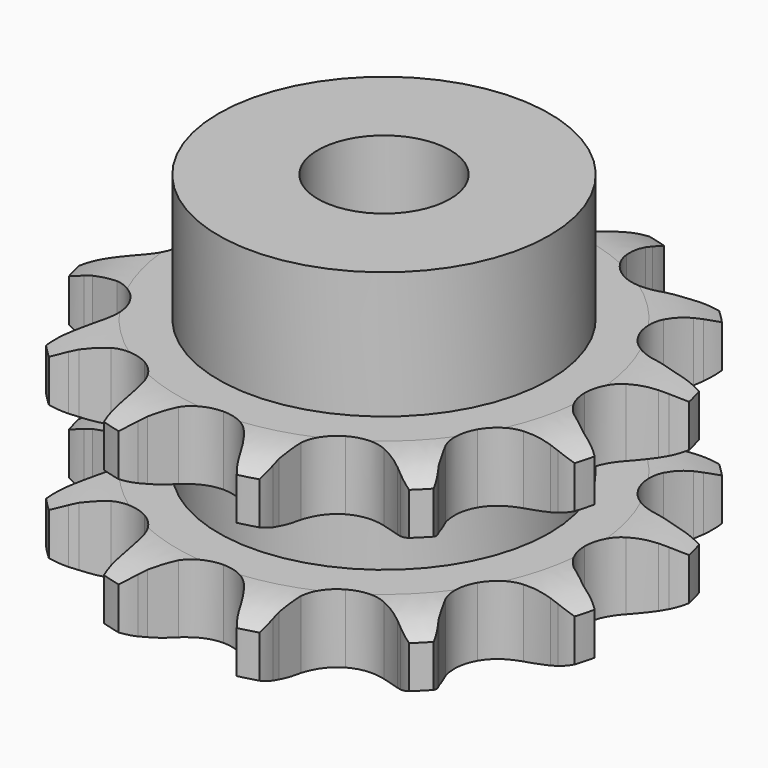
from build123d import *

# Parameters (mm, degrees)
PAD_DEPTH         = 15.4
SKETCH001_R       = 12.5
PAD001_DEPTH      = 25
SKETCH002_R       = 5
POCKET_DEPTH      = 0.001
POCKET_DEPTH_BACK = 25.001


with BuildPart() as part:
    # Sprocket → Pad (new body)
    with BuildSketch(Plane.XY):
        with BuildLine():
            ThreePointArc((-5.477307, 20.441588), (-4.527809, 19.570219), (-3.814697, 18.496767))
            Line((-3.814697, 18.496767), (-3.533665, 17.937187))
            ThreePointArc((-3.533665, 17.937187), (-3.050542, 17.100392), (-2.473538, 16.325342))
            ThreePointArc((-2.473538, 16.325342), (-1.364624, 15.474442), (0, 15.171912))
            ThreePointArc((0, 15.171912), (1.364624, 15.474442), (2.473538, 16.325342))
            ThreePointArc((2.473538, 16.325342), (3.050542, 17.100392), (3.533665, 17.937187))
            Line((3.533665, 17.937187), (3.814697, 18.496767))
            ThreePointArc((3.814697, 18.496767), (4.527809, 19.570219), (5.477307, 20.441588))
            ThreePointArc((5.477307, 20.441588), (5.863912, 19.212212), (5.944759, 17.926018))
            Line((5.944759, 17.926018), (5.908349, 17.300892))
            ThreePointArc((5.908349, 17.300892), (5.908349, 16.334644), (6.020524, 15.37493))
            ThreePointArc((6.020524, 15.37493), (6.555422, 14.083572), (7.585956, 13.139261))
            ThreePointArc((7.585956, 13.139261), (8.91902, 12.718948), (10.304818, 12.901392))
            Line((10.304818, 12.901392), (12.028838, 13.767227))
            ThreePointArc((12.028838, 13.767227), (12.28718, 13.944204), (12.552008, 14.111321))
            ThreePointArc((12.552008, 14.111321), (13.706308, 14.684402), (14.964281, 14.964281))
            ThreePointArc((14.964281, 14.964281), (14.684402, 13.706308), (14.111321, 12.552008))
            Line((14.111321, 12.552008), (13.767227, 12.028838))
            ThreePointArc((13.767227, 12.028838), (13.284103, 11.192042), (12.901392, 10.304818))
            ThreePointArc((12.901392, 10.304818), (12.718948, 8.91902), (13.139261, 7.585956))
            ThreePointArc((13.139261, 7.585956), (14.083572, 6.555422), (15.37493, 6.020524))
            Line((15.37493, 6.020524), (17.300892, 5.908349))
            ThreePointArc((17.300892, 5.908349), (17.613112, 5.932445), (17.926018, 5.944759))
            ThreePointArc((17.926018, 5.944759), (19.212212, 5.863912), (20.441588, 5.477307))
            ThreePointArc((20.441588, 5.477307), (19.570219, 4.527809), (18.496767, 3.814697))
            Line((18.496767, 3.814697), (17.937187, 3.533665))
            ThreePointArc((17.937187, 3.533665), (17.100392, 3.050542), (16.325342, 2.473538))
            ThreePointArc((16.325342, 2.473538), (15.474442, 1.364624), (15.171912, 0))
            ThreePointArc((15.171912, 0), (15.474442, -1.364624), (16.325342, -2.473538))
            Line((16.325342, -2.473538), (17.937187, -3.533665))
            ThreePointArc((17.937187, -3.533665), (18.219625, -3.668908), (18.496767, -3.814697))
            ThreePointArc((18.496767, -3.814697), (19.570219, -4.527809), (20.441588, -5.477307))
            ThreePointArc((20.441588, -5.477307), (19.212212, -5.863912), (17.926018, -5.944759))
            Line((17.926018, -5.944759), (17.300892, -5.908349))
            ThreePointArc((17.300892, -5.908349), (16.334644, -5.908349), (15.37493, -6.020524))
            ThreePointArc((15.37493, -6.020524), (14.083572, -6.555422), (13.139261, -7.585956))
            ThreePointArc((13.139261, -7.585956), (12.718948, -8.91902), (12.901392, -10.304818))
            Line((12.901392, -10.304818), (13.767227, -12.028838))
            ThreePointArc((13.767227, -12.028838), (13.944204, -12.28718), (14.111321, -12.552008))
            ThreePointArc((14.111321, -12.552008), (14.684402, -13.706308), (14.964281, -14.964281))
            ThreePointArc((14.964281, -14.964281), (13.706308, -14.684402), (12.552008, -14.111321))
            Line((12.552008, -14.111321), (12.028838, -13.767227))
            ThreePointArc((12.028838, -13.767227), (11.192042, -13.284103), (10.304818, -12.901392))
            ThreePointArc((10.304818, -12.901392), (8.91902, -12.718948), (7.585956, -13.139261))
            ThreePointArc((7.585956, -13.139261), (6.555422, -14.083572), (6.020524, -15.37493))
            Line((6.020524, -15.37493), (5.908349, -17.300892))
            ThreePointArc((5.908349, -17.300892), (5.932445, -17.613112), (5.944759, -17.926018))
            ThreePointArc((5.944759, -17.926018), (5.863912, -19.212212), (5.477307, -20.441588))
            ThreePointArc((5.477307, -20.441588), (4.527809, -19.570219), (3.814697, -18.496767))
            Line((3.814697, -18.496767), (3.533665, -17.937187))
            ThreePointArc((3.533665, -17.937187), (3.050542, -17.100392), (2.473538, -16.325342))
            ThreePointArc((2.473538, -16.325342), (1.364624, -15.474442), (0, -15.171912))
            ThreePointArc((0, -15.171912), (-1.364624, -15.474442), (-2.473538, -16.325342))
            Line((-2.473538, -16.325342), (-3.533665, -17.937187))
            ThreePointArc((-3.533665, -17.937187), (-3.668908, -18.219625), (-3.814697, -18.496767))
            ThreePointArc((-3.814697, -18.496767), (-4.527809, -19.570219), (-5.477307, -20.441588))
            ThreePointArc((-5.477307, -20.441588), (-5.863912, -19.212212), (-5.944759, -17.926018))
            Line((-5.944759, -17.926018), (-5.908349, -17.300892))
            ThreePointArc((-5.908349, -17.300892), (-5.908349, -16.334644), (-6.020524, -15.37493))
            ThreePointArc((-6.020524, -15.37493), (-6.555422, -14.083572), (-7.585956, -13.139261))
            ThreePointArc((-7.585956, -13.139261), (-8.91902, -12.718948), (-10.304818, -12.901392))
            Line((-10.304818, -12.901392), (-12.028838, -13.767227))
            ThreePointArc((-12.028838, -13.767227), (-12.28718, -13.944204), (-12.552008, -14.111321))
            ThreePointArc((-12.552008, -14.111321), (-13.706308, -14.684402), (-14.964281, -14.964281))
            ThreePointArc((-14.964281, -14.964281), (-14.684402, -13.706308), (-14.111321, -12.552008))
            Line((-14.111321, -12.552008), (-13.767227, -12.028838))
            ThreePointArc((-13.767227, -12.028838), (-13.284103, -11.192042), (-12.901392, -10.304818))
            ThreePointArc((-12.901392, -10.304818), (-12.718948, -8.91902), (-13.139261, -7.585956))
            ThreePointArc((-13.139261, -7.585956), (-14.083572, -6.555422), (-15.37493, -6.020524))
            Line((-15.37493, -6.020524), (-17.300892, -5.908349))
            ThreePointArc((-17.300892, -5.908349), (-17.613112, -5.932445), (-17.926018, -5.944759))
            ThreePointArc((-17.926018, -5.944759), (-19.212212, -5.863912), (-20.441588, -5.477307))
            ThreePointArc((-20.441588, -5.477307), (-19.570219, -4.527809), (-18.496767, -3.814697))
            Line((-18.496767, -3.814697), (-17.937187, -3.533665))
            ThreePointArc((-17.937187, -3.533665), (-17.100392, -3.050542), (-16.325342, -2.473538))
            ThreePointArc((-16.325342, -2.473538), (-15.474442, -1.364624), (-15.171912, 0))
            ThreePointArc((-15.171912, 0), (-15.474442, 1.364624), (-16.325342, 2.473538))
            Line((-16.325342, 2.473538), (-17.937187, 3.533665))
            ThreePointArc((-17.937187, 3.533665), (-18.219625, 3.668908), (-18.496767, 3.814697))
            ThreePointArc((-18.496767, 3.814697), (-19.570219, 4.527809), (-20.441588, 5.477307))
            ThreePointArc((-20.441588, 5.477307), (-19.212212, 5.863912), (-17.926018, 5.944759))
            Line((-17.926018, 5.944759), (-17.300892, 5.908349))
            ThreePointArc((-17.300892, 5.908349), (-16.334644, 5.908349), (-15.37493, 6.020524))
            ThreePointArc((-15.37493, 6.020524), (-14.083572, 6.555422), (-13.139261, 7.585956))
            ThreePointArc((-13.139261, 7.585956), (-12.718948, 8.91902), (-12.901392, 10.304818))
            Line((-12.901392, 10.304818), (-13.767227, 12.028838))
            ThreePointArc((-13.767227, 12.028838), (-13.944204, 12.28718), (-14.111321, 12.552008))
            ThreePointArc((-14.111321, 12.552008), (-14.684402, 13.706308), (-14.964281, 14.964281))
            ThreePointArc((-14.964281, 14.964281), (-13.706308, 14.684402), (-12.552008, 14.111321))
            Line((-12.552008, 14.111321), (-12.028838, 13.767227))
            ThreePointArc((-12.028838, 13.767227), (-11.192042, 13.284103), (-10.304818, 12.901392))
            ThreePointArc((-10.304818, 12.901392), (-8.91902, 12.718948), (-7.585956, 13.139261))
            ThreePointArc((-7.585956, 13.139261), (-6.555422, 14.083572), (-6.020524, 15.37493))
            Line((-6.020524, 15.37493), (-5.908349, 17.300892))
            ThreePointArc((-5.908349, 17.300892), (-5.932445, 17.613112), (-5.944759, 17.926018))
            ThreePointArc((-5.944759, 17.926018), (-5.863912, 19.212212), (-5.477307, 20.441588))
        make_face()
    extrude(amount=PAD_DEPTH)

    # Sketch → Groove (revolve, cut)
    with BuildSketch(Plane.XZ):
        with BuildLine():
            ThreePointArc((15.641101, 0), (17.877169, 0.253206), (20, 1))
            Line((20, 1), (20, 4.2))
            ThreePointArc((20, 4.2), (17.877169, 4.946794), (15.641101, 5.2))
            Line((12.5, 5.2), (15.641101, 5.2))
            Line((12.5, 10.2), (12.5, 5.2))
            Line((15.641101, 10.2), (12.5, 10.2))
            ThreePointArc((15.641101, 10.2), (17.877169, 10.453206), (20, 11.2))
            Line((20, 11.2), (20, 14.4))
            ThreePointArc((20, 14.4), (17.877169, 15.146794), (15.641101, 15.4))
            Line((15.641101, 15.4), (25.641101, 15.4))
            Line((25.641101, 15.4), (25.641101, 0))
            Line((15.641101, 0), (25.641101, 0))
        make_face()
    revolve(axis=Axis((0, 0, 0), (0, 0, 1)), mode=Mode.SUBTRACT)

    # Sketch001 → Pad001 (join)
    with BuildSketch(Plane.XY):
        Circle(SKETCH001_R)
    extrude(amount=PAD001_DEPTH)

    # Sketch002 → Pocket (cut, two sides)
    with BuildSketch(Plane.XY) as pocket_sk:
        Circle(SKETCH002_R)
    extrude(amount=-POCKET_DEPTH, mode=Mode.SUBTRACT)
    extrude(pocket_sk.sketch, amount=POCKET_DEPTH_BACK, mode=Mode.SUBTRACT)


solid = part.part
